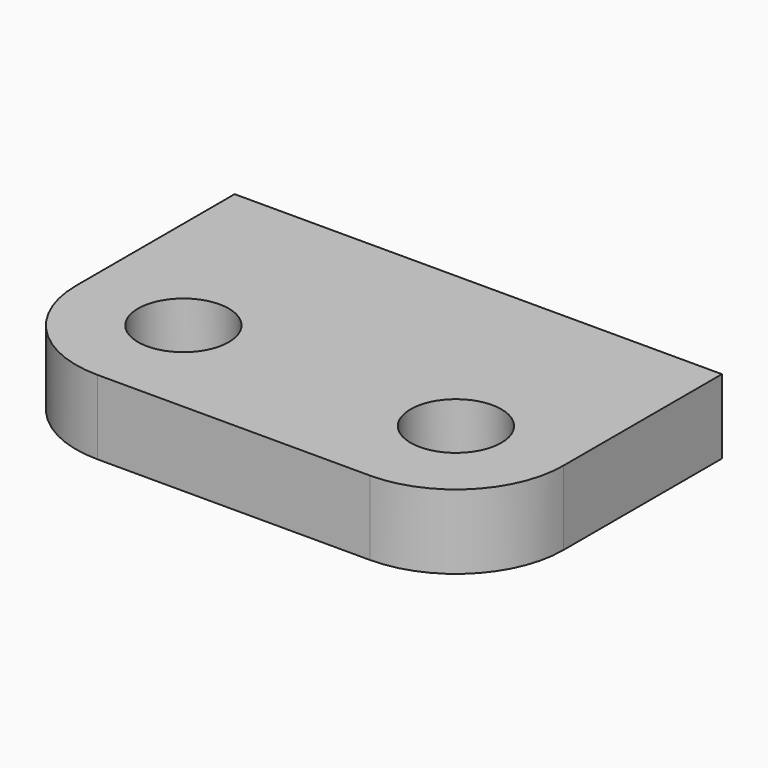
from build123d import *

# Parameters (mm, degrees)
F0_R     = 5.5
F1_DEPTH = 9


with BuildPart() as f1:
    # F0 (on Top) → F1 (new body)
    with BuildSketch(Plane.XY):
        with BuildLine():
            Line((59, 0), (0, 0))
            Line((0, 0), (0, -24))
            ThreePointArc((0, -24), (3.807612, -33.192388), (13, -37))
            Line((13, -37), (46, -37))
            ThreePointArc((46, -37), (55.192388, -33.192388), (59, -24))
            Line((59, -24), (59, 0))
        make_face()
        with Locations((13, -24)):
            Circle(F0_R, mode=Mode.SUBTRACT)
        with Locations((46, -24)):
            Circle(F0_R, mode=Mode.SUBTRACT)
    extrude(amount=-F1_DEPTH)


solid = f1.part
